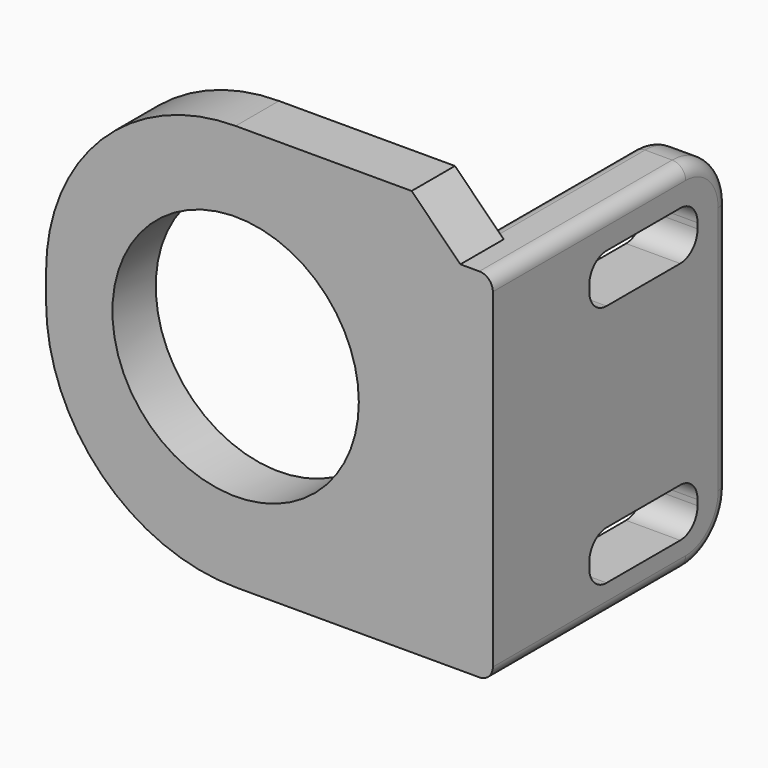
from build123d import *

# Parameters (mm, degrees)
CYLINDER001_R     = 9.1
CYLINDER001_DEPTH = 20
BOX_W             = 33
BOX_H             = 4
BOX_DEPTH         = 30
FILLET_R          = 14
FILLET005_R       = 1
CHAMFER_SIZE      = 6
BOX003_W          = 10
BOX003_H          = 10
BOX003_DEPTH      = 3.6
FILLET004_R       = 1.6
BOX002_W          = 10
BOX002_H          = 10
BOX002_DEPTH      = 3.6
FILLET003_R       = 1.6
BOX001_W          = 4
BOX001_H          = 21.8
BOX001_DEPTH      = 26.4
FILLET001_R       = 4
FILLET002_R       = 1


with BuildPart() as cilindro001:
    # Cylinder001 → Cylinder001 (new body)
    with BuildSketch(Plane(origin=(611, 168, 72), x_dir=(1, 0, 0), z_dir=(0, 1, 0))):
        Circle(CYLINDER001_R)
    extrude(amount=CYLINDER001_DEPTH)


with BuildPart() as chamfer_body:
    # Box → Box (new body)
    with BuildSketch(Plane(origin=(597, 176, 57), x_dir=(1, 0, 0), z_dir=(0, 0, 1))):
        with Locations((16.5, 2)):
            Rectangle(BOX_W, BOX_H)
    extrude(amount=BOX_DEPTH)

    # Fillet
    fillet_edges = [chamfer_body.edges().sort_by_distance(p)[0] for p in [
        (597, 178, 87),
        (597, 178, 57),
    ]]
    fillet(fillet_edges, radius=FILLET_R)

    # Fillet005
    fillet005_edges = [chamfer_body.edges().sort_by_distance(p)[0] for p in [
        (630, 178, 57),
    ]]
    fillet(fillet005_edges, radius=FILLET005_R)

    # Chamfer
    chamfer_edges = [chamfer_body.edges().sort_by_distance(p)[0] for p in [
        (630, 178, 87),
    ]]
    chamfer(chamfer_edges, length=CHAMFER_SIZE)


with BuildPart() as fillet004:
    # Box003 → Box003 (new body)
    with BuildSketch(Plane(origin=(621, 184.9, 59.2), x_dir=(1, 0, 0), z_dir=(0, 0, 1))):
        with Locations((5, 5)):
            Rectangle(BOX003_W, BOX003_H)
    extrude(amount=BOX003_DEPTH)

    # Fillet004
    fillet004_edges = [fillet004.edges().sort_by_distance(p)[0] for p in [
        (626, 184.9, 59.2),
        (626, 184.9, 62.8),
        (626, 194.9, 59.2),
        (626, 194.9, 62.8),
    ]]
    fillet(fillet004_edges, radius=FILLET004_R)


with BuildPart() as fillet004_1:
    # Fillet004 placement: moved
    add(fillet004.part.moved(Location((0, 0, 18))))


with BuildPart() as fillet003:
    # Box002 → Box002 (new body)
    with BuildSketch(Plane(origin=(621, 184.9, 59.2), x_dir=(1, 0, 0), z_dir=(0, 0, 1))):
        with Locations((5, 5)):
            Rectangle(BOX002_W, BOX002_H)
    extrude(amount=BOX002_DEPTH)

    # Fillet003
    fillet003_edges = [fillet003.edges().sort_by_distance(p)[0] for p in [
        (626, 184.9, 59.2),
        (626, 184.9, 62.8),
        (626, 194.9, 59.2),
        (626, 194.9, 62.8),
    ]]
    fillet(fillet003_edges, radius=FILLET003_R)


with BuildPart() as cut002:
    # Box001 → Box001 (new body)
    with BuildSketch(Plane(origin=(626, 176, 57), x_dir=(1, 0, 0), z_dir=(0, 0, 1))):
        with Locations((2, 10.9)):
            Rectangle(BOX001_W, BOX001_H)
    extrude(amount=BOX001_DEPTH)

    # Fillet001
    fillet001_edges = [cut002.edges().sort_by_distance(p)[0] for p in [
        (628, 197.8, 57),
        (628, 197.8, 83.4),
    ]]
    fillet(fillet001_edges, radius=FILLET001_R)

    # Fillet002
    fillet002_edges = [cut002.edges().sort_by_distance(p)[0] for p in [
        (626, 184.9, 83.4),
        (626, 197.8, 70.2),
        (626, 184.9, 57),
        (630, 184.9, 83.4),
        (630, 197.8, 70.2),
        (630, 184.9, 57),
    ]]
    fillet(fillet002_edges, radius=FILLET002_R)

    # Cut: cut Fillet003
    add(fillet003.part, mode=Mode.SUBTRACT)

    # Cut001: cut Fillet004
    add(fillet004_1.part, mode=Mode.SUBTRACT)

    # Fusion: union Chamfer body
    add(chamfer_body.part)

    # Cut002: cut Cilindro001
    add(cilindro001.part, mode=Mode.SUBTRACT)


solid = cut002.part
